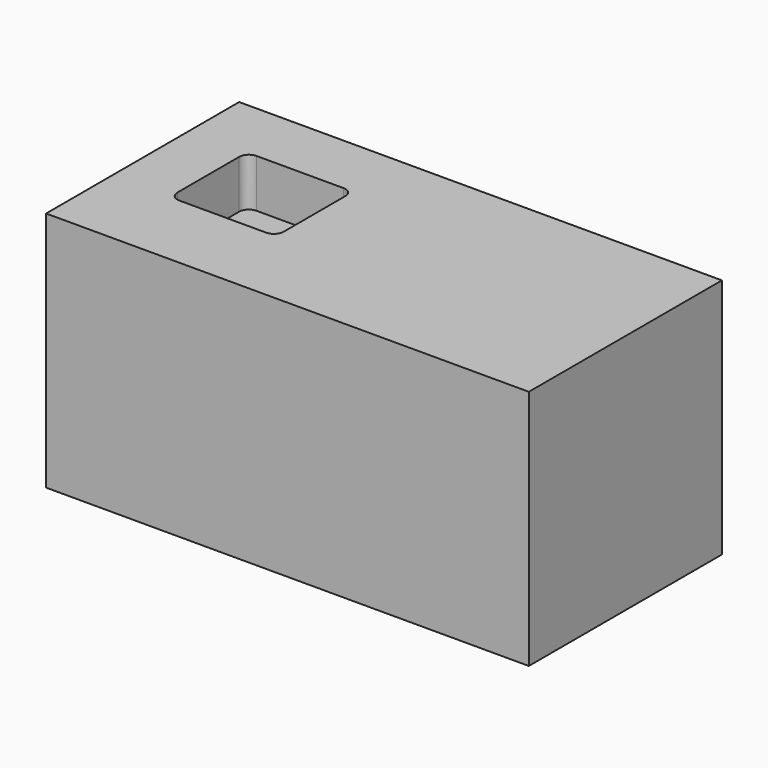
from build123d import *

# Parameters (mm, degrees)
F0_W     = 100
F0_H     = 50
F1_DEPTH = 50
F3_DEPTH = 10


with BuildPart() as f1:
    # F0 (on Top) → F1 (new body)
    with BuildSketch(Plane.XY):
        Rectangle(F0_W, F0_H)
    extrude(amount=F1_DEPTH)

    # F2 (on face) → F3 (cut)
    with BuildSketch(Plane.XY.offset(50)):
        with BuildLine():
            Line((-18, 12), (-36, 12))
            ThreePointArc((-36, 12), (-37.414214, 11.414214), (-38, 10))
            Line((-38, 10), (-38, -6))
            ThreePointArc((-38, -6), (-37.414214, -7.414214), (-36, -8))
            Line((-36, -8), (-18, -8))
            ThreePointArc((-18, -8), (-16.585786, -7.414214), (-16, -6))
            Line((-16, -6), (-16, 10))
            ThreePointArc((-16, 10), (-16.585786, 11.414214), (-18, 12))
        make_face()
    extrude(amount=-F3_DEPTH, mode=Mode.SUBTRACT)


solid = f1.part
